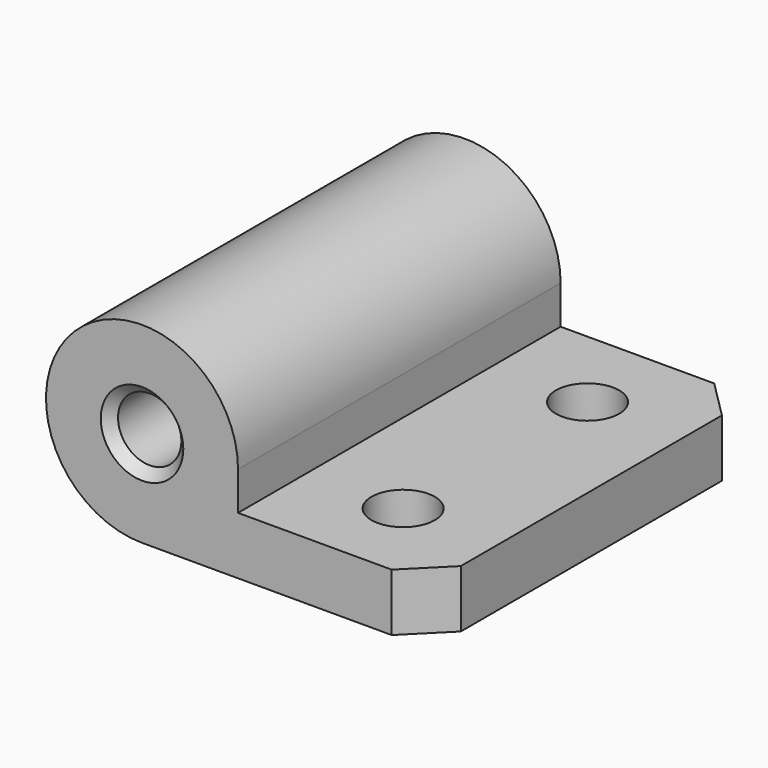
from build123d import *

# Parameters (mm, degrees)
SKETCH_R        = 1.65
PAD_DEPTH       = 10.5
CHAMFER_SIZE    = 0.5
CHAMFER001_SIZE = 2
SKETCH001_R     = 1.65
POCKET_DEPTH    = 3.001


with BuildPart() as part:
    # Sketch → Pad (new body, symmetric)
    with BuildSketch(Plane.XZ):
        with BuildLine():
            ThreePointArc((5, 4.999972), (-3.535524, 8.535544), (0, 0))
            Line((0, 0), (15, 0))
            Line((15, 0), (15, 3))
            Line((15, 3), (5, 3))
            Line((5, 3), (5, 4.999972))
        make_face()
        with Locations((0, 5)):
            Circle(SKETCH_R, mode=Mode.SUBTRACT)
    extrude(amount=PAD_DEPTH, both=True)

    # Chamfer
    chamfer_edges = [part.edges().sort_by_distance(p)[0] for p in [
        (-1.65, -10.5, 5),
        (-1.65, 10.5, 5),
    ]]
    chamfer(chamfer_edges, length=CHAMFER_SIZE)

    # Chamfer001
    chamfer001_edges = [part.edges().sort_by_distance(p)[0] for p in [
        (15, 10.5, 1.5),
        (15, -10.5, 1.5),
    ]]
    chamfer(chamfer001_edges, length=CHAMFER001_SIZE)

    # Sketch001 → Pocket (cut, through all)
    with BuildSketch(Plane(origin=(0, 0, 3), x_dir=(-1, 0, 0), z_dir=(0, 0, 1))):
        with Locations((-10, 6)):
            Circle(SKETCH001_R)
        with Locations((-10, -6)):
            Circle(SKETCH001_R)
    extrude(amount=-POCKET_DEPTH, mode=Mode.SUBTRACT)


solid = part.part
